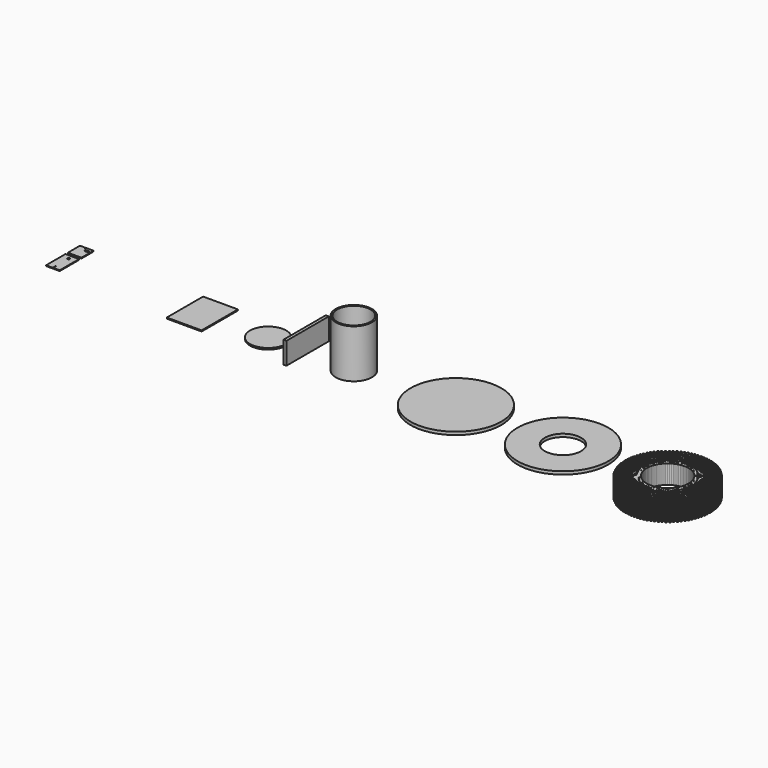
from build123d import *

# Parameters (mm, degrees)
F1_DEPTH  = 62.5
F2_R      = 300
F3_DEPTH  = 20
F4_R      = 120
F5_DEPTH  = 20
F6_R      = 300
F7_DEPTH  = 20
F8_R      = 120
F8_R_2    = 110
F9_DEPTH  = 320
F10_W     = 20
F10_H     = 350
F11_DEPTH = 145
F12_R     = 120
F13_DEPTH = 10
F14_W     = 230
F14_H     = 300
F15_DEPTH = 7
F16_W     = 90
F16_H     = 160
F16_R     = 3
F16_R_2   = 7.5
F17_DEPTH = 5
F18_W     = 90
F18_H     = 100
F18_R     = 3
F19_DEPTH = 5


with BuildPart() as f1:
    # F0 (on Top) → F1 (new body, symmetric)
    with BuildSketch(Plane.XY):
        Polygon((138, -4.9286824998), (138, -5), (139.9968450039, -5), (138.0050877322, -4.8575467084), align=None)
        Polygon((139.9968450039, -5), (138, -5), (138, -4.9286824998), (137.2967836324, -14.7609320632), (137.3069331709, -14.6903404723), (139.283453172, -14.9745211461), (278.9298961749, -24.9622318688), (279.6432880069, -14.9877107227), align=None)
        Polygon((138.0050877322, -4.8575467084), (139.9968450039, -5), (280, -5), (280, 5), (139.996845004, 5), (138.0050877322, 4.8575467084), (138, 4.9286824998), (138, -4.9286824998), align=None)
        Polygon((137.2967836324, 14.7609320632), (138, 4.9286824998), (138, 5), (139.996845004, 5), (279.6432880069, 14.9877107227), (278.9298961749, 24.9622318688), (139.283453172, 14.9745211461), (137.3069331709, 14.6903404723), align=None)
        Polygon((138, 5), (138, 4.9286824998), (138.0050877322, 4.8575467084), (139.996845004, 5), align=None)
        Polygon((137.2916959002, -14.8320678545), (137.2967836324, -14.7609320632), (135.8939343267, -24.5179633003), (135.9090939518, -24.4482756285), (137.8603047892, -24.8727355649), (276.4384295353, -44.7972619259), (277.861577918, -34.8990475071), (139.283453172, -14.9745211461), align=None)
        Polygon((137.3069331709, -14.6903404723), (137.2967836324, -14.7609320632), (137.2916959002, -14.8320678545), (139.283453172, -14.9745211461), align=None)
        Polygon((135.8939343267, 24.5179633003), (137.2967836324, 14.7609320632), (137.2916959002, 14.8320678545), (139.283453172, 14.9745211461), (277.861577918, 34.8990475071), (276.4384295353, 44.7972619259), (137.8603047892, 24.8727355649), (135.9090939518, 24.4482756285), align=None)
        Polygon((137.2916959002, 14.8320678545), (137.2967836324, 14.7609320632), (137.3069331709, 14.6903404723), (139.283453172, 14.9745211461), align=None)
        Polygon((135.8837847882, -24.5885548911), (135.8939343267, -24.5179633003), (133.7986006813, -34.1500566164), (133.818693143, -34.081627976), (135.7346518937, -34.6442042246), (272.5382960242, -64.4040154047), (274.6639489197, -54.632546745), (137.8603047892, -24.8727355649), align=None)
        Polygon((135.9090939518, -24.4482756285), (135.8939343267, -24.5179633003), (135.8837847882, -24.5885548911), (137.8603047892, -24.8727355649), align=None)
        Polygon((133.7986006813, 34.1500566164), (135.8939343267, 24.5179633003), (135.8837847882, 24.5885548911), (137.8603047892, 24.8727355649), (274.6639489197, 54.632546745), (272.5382960242, 64.4040154047), (135.7346518937, 34.6442042246), (133.818693143, 34.081627976), align=None)
        Polygon((135.8837847882, 24.5885548911), (135.8939343267, 24.5179633003), (135.9090939518, 24.4482756285), (137.8603047892, 24.8727355649), align=None)
        Polygon((133.7834410563, -34.2197442882), (133.7986006813, -34.1500566164), (131.0214600363, -43.6081290719), (131.046382948, -43.5413081597), (132.9173263253, -44.2391339608), (267.2493698279, -83.6825807837), (270.0666953963, -74.0876510475), (135.7346518937, -34.6442042246), align=None)
        Polygon((133.818693143, -34.081627976), (133.7986006813, -34.1500566164), (133.7834410563, -34.2197442882), (135.7346518937, -34.6442042246), align=None)
        Polygon((131.0214600363, 43.6081290719), (133.7986006813, 34.1500566164), (133.7834410563, 34.2197442882), (135.7346518937, 34.6442042246), (270.0666953963, 74.0876510475), (267.2493698279, 83.6825807837), (132.9173263253, 44.2391339608), (131.046382948, 43.5413081597), align=None)
        Polygon((133.7834410563, 34.2197442882), (133.7986006813, 34.1500566164), (133.818693143, 34.081627976), (135.7346518937, 34.6442042246), align=None)
        Polygon((131.0013675746, -43.6765577122), (131.0214600363, -43.6081290719), (127.5766640637, -52.8439844975), (127.6062904239, -52.7791118175), (129.4226845293, -53.6086312108), (260.5986021019, -102.5347189127), (264.0932438979, -93.1652216627), (132.9173263253, -44.2391339608), align=None)
        Polygon((131.046382948, -43.5413081597), (131.0214600363, -43.6081290719), (131.0013675746, -43.6765577122), (132.9173263253, -44.2391339608), align=None)
        Polygon((127.5766640637, 52.8439844975), (131.0214600363, 43.6081290719), (131.0013675746, 43.6765577122), (132.9173263253, 44.2391339608), (264.0932438979, 93.1652216627), (260.5986021019, 102.5347189127), (129.4226845293, 53.6086312108), (127.6062904239, 52.7791118175), align=None)
        Polygon((131.0013675746, 43.6765577122), (131.0214600363, 43.6081290719), (131.046382948, 43.5413081597), (132.9173263253, 44.2391339608), align=None)
        Polygon((127.551741152, -52.9108054097), (127.5766640637, -52.8439844975), (123.4817666542, -61.810559091), (123.5159454939, -61.7479652195), (125.2685343993, -62.7049511643), (252.6198836343, -120.8643636173), (256.7740337643, -111.7680436638), (129.4226845293, -53.6086312108), align=None)
        Polygon((127.6062904239, -52.7791118175), (127.5766640637, -52.8439844975), (127.551741152, -52.9108054097), (129.4226845293, -53.6086312108), align=None)
        Polygon((123.4817666542, 61.810559091), (127.5766640637, 52.8439844975), (127.551741152, 52.9108054097), (129.4226845293, 53.6086312108), (256.7740337643, 111.7680436638), (252.6198836343, 120.8643636173), (125.2685343993, 62.7049511643), (123.5159454939, 61.7479652195), align=None)
        Polygon((127.551741152, 52.9108054097), (127.5766640637, 52.8439844975), (127.6062904239, 52.7791118175), (129.4226845293, 53.6086312108), align=None)
        Polygon((123.4521402939, -61.875431771), (123.4817666542, -61.810559091), (118.7576344664, -70.4621612437), (118.796191618, -70.4021651447), (120.4760445321, -71.48174106), (243.3538721452, -138.5781112295), (248.1463620124, -129.8013213338), (125.2685343993, -62.7049511643), align=None)
        Polygon((123.5159454939, -61.7479652195), (123.4817666542, -61.810559091), (123.4521402939, -61.875431771), (125.2685343993, -62.7049511643), align=None)
        Polygon((118.7576344664, 70.4621612437), (123.4817666542, 61.810559091), (123.4521402939, 61.875431771), (125.2685343993, 62.7049511643), (248.1463620124, 129.8013213338), (243.3538721452, 138.5781112295), (120.4760445321, 71.48174106), (118.796191618, 70.4021651447), align=None)
        Polygon((123.4521402939, 61.875431771), (123.4817666542, 61.810559091), (123.5159454939, 61.7479652195), (125.2685343993, 62.7049511643), align=None)
        Polygon((118.7234556267, -70.5247551152), (118.7576344664, -70.4621612437), (113.428340595, -78.754704374), (113.4710795801, -78.6976117739), (115.0696363575, -79.8942763883), (232.8477851055, -155.5856965517), (238.25419328, -147.1731612234), (120.4760445321, -71.48174106), align=None)
        Polygon((118.796191618, -70.4021651447), (118.7576344664, -70.4621612437), (118.7234556267, -70.5247551152), (120.4760445321, -71.48174106), align=None)
        Polygon((113.428340595, 78.754704374), (118.7576344664, 70.4621612437), (118.7234556267, 70.5247551152), (120.4760445321, 71.48174106), (238.25419328, 147.1731612234), (232.8477851055, 155.5856965517), (115.0696363575, 79.8942763883), (113.4710795801, 78.6976117739), align=None)
        Polygon((118.7234556267, 70.5247551152), (118.7576344664, 70.4621612437), (118.796191618, 70.4021651447), (120.4760445321, 71.48174106), align=None)
        Polygon((113.3897834434, -78.814700473), (113.428340595, -78.754704374), (107.5210419001, -86.6459315831), (107.5677449306, -86.5920334127), (109.0768596924, -87.8996887975), (221.1551591263, -171.8004528278), (227.1479357914, -163.7950404186), (115.0696363575, -79.8942763883), align=None)
        Polygon((113.4710795801, -78.6976117739), (113.428340595, -78.754704374), (113.3897834434, -78.814700473), (115.0696363575, -79.8942763883), align=None)
        Polygon((107.5210419001, 86.6459315831), (113.428340595, 78.754704374), (113.3897834434, 78.814700473), (115.0696363575, 79.8942763883), (227.1479357914, 163.7950404186), (221.1551591263, 171.8004528278), (109.0768596924, 87.8996887975), (107.5677449306, 86.5920334127), align=None)
        Polygon((113.3897834434, 78.814700473), (113.428340595, 78.754704374), (113.4710795801, 78.6976117739), (115.0696363575, 79.8942763883), align=None)
        Polygon((107.478302915, -86.7030241832), (107.5210419001, -86.6459315831), (101.0658406217, -94.0956309858), (101.1162697097, -94.0452018978), (102.5282523529, -95.4571845411), (208.3355771495, -187.1397533765), (214.8841844889, -179.5822576329), (109.0768596924, -87.8996887975), align=None)
        Polygon((107.5677449306, -86.5920334127), (107.5210419001, -86.6459315831), (107.478302915, -86.7030241832), (109.0768596924, -87.8996887975), align=None)
        Polygon((101.0658406217, 94.0956309858), (107.5210419001, 86.6459315831), (107.478302915, 86.7030241832), (109.0768596924, 87.8996887975), (214.8841844889, 179.5822576329), (208.3355771495, 187.1397533765), (102.5282523529, 95.4571845411), (101.1162697097, 94.0452018978), align=None)
        Polygon((107.478302915, 86.7030241832), (107.5210419001, 86.6459315831), (107.5677449306, 86.5920334127), (109.0768596924, 87.8996887975), align=None)
        Polygon((101.0191375912, -94.1495291562), (101.0658406217, -94.0956309858), (94.0956309858, -101.0658406217), (94.1495291562, -101.0191375912), (95.4571845411, -102.5282523529), (194.4543648263, -201.5254326382), (201.5254326382, -194.4543648263), (102.5282523529, -95.4571845411), align=None)
        Polygon((101.1162697097, -94.0452018978), (101.0658406217, -94.0956309858), (101.0191375912, -94.1495291562), (102.5282523529, -95.4571845411), align=None)
        Polygon((94.0956309858, 101.0658406217), (101.0658406217, 94.0956309858), (101.0191375912, 94.1495291562), (102.5282523529, 95.4571845411), (201.5254326382, 194.4543648263), (194.4543648263, 201.5254326382), (95.4571845411, 102.5282523529), (94.1495291562, 101.0191375912), align=None)
        Polygon((101.0191375912, 94.1495291562), (101.0658406217, 94.0956309858), (101.1162697097, 94.0452018978), (102.5282523529, 95.4571845411), align=None)
        Polygon((94.0452018978, -101.1162697097), (94.0956309858, -101.0658406217), (86.6459315831, -107.5210419001), (86.7030241832, -107.478302915), (87.8996887975, -109.0768596924), (179.5822576329, -214.8841844889), (187.1397533765, -208.3355771495), (95.4571845411, -102.5282523529), align=None)
        Polygon((94.1495291562, -101.0191375912), (94.0956309858, -101.0658406217), (94.0452018978, -101.1162697097), (95.4571845411, -102.5282523529), align=None)
        Polygon((86.6459315831, 107.5210419001), (94.0956309858, 101.0658406217), (94.0452018978, 101.1162697097), (95.4571845411, 102.5282523529), (187.1397533765, 208.3355771495), (179.5822576329, 214.8841844889), (87.8996887975, 109.0768596924), (86.7030241832, 107.478302915), align=None)
        Polygon((94.0452018978, 101.1162697097), (94.0956309858, 101.0658406217), (94.1495291562, 101.0191375912), (95.4571845411, 102.5282523529), align=None)
        Polygon((86.5920334127, -107.5677449306), (86.6459315831, -107.5210419001), (78.754704374, -113.428340595), (78.814700473, -113.3897834434), (79.8942763883, -115.0696363575), (163.7950404186, -227.1479357914), (171.8004528278, -221.1551591263), (87.8996887975, -109.0768596924), align=None)
        Polygon((86.7030241832, -107.478302915), (86.6459315831, -107.5210419001), (86.5920334127, -107.5677449306), (87.8996887975, -109.0768596924), align=None)
        Polygon((78.754704374, 113.428340595), (86.6459315831, 107.5210419001), (86.5920334127, 107.5677449306), (87.8996887975, 109.0768596924), (171.8004528278, 221.1551591263), (163.7950404186, 227.1479357914), (79.8942763883, 115.0696363575), (78.814700473, 113.3897834434), align=None)
        Polygon((86.5920334127, 107.5677449306), (86.6459315831, 107.5210419001), (86.7030241832, 107.478302915), (87.8996887975, 109.0768596924), align=None)
        Polygon((78.6976117739, -113.4710795801), (78.754704374, -113.428340595), (70.4621612437, -118.7576344664), (70.5247551152, -118.7234556267), (71.48174106, -120.4760445321), (147.1731612234, -238.25419328), (155.5856965517, -232.8477851055), (79.8942763883, -115.0696363575), align=None)
        Polygon((78.814700473, -113.3897834434), (78.754704374, -113.428340595), (78.6976117739, -113.4710795801), (79.8942763883, -115.0696363575), align=None)
        Polygon((70.4621612437, 118.7576344664), (78.754704374, 113.428340595), (78.6976117739, 113.4710795801), (79.8942763883, 115.0696363575), (155.5856965517, 232.8477851055), (147.1731612234, 238.25419328), (71.48174106, 120.4760445321), (70.5247551152, 118.7234556267), align=None)
        Polygon((78.6976117739, 113.4710795801), (78.754704374, 113.428340595), (78.814700473, 113.3897834434), (79.8942763883, 115.0696363575), align=None)
        Polygon((70.4021651447, -118.796191618), (70.4621612437, -118.7576344664), (61.810559091, -123.4817666542), (61.875431771, -123.4521402939), (62.7049511643, -125.2685343993), (129.8013213338, -248.1463620124), (138.5781112295, -243.3538721452), (71.48174106, -120.4760445321), align=None)
        Polygon((70.5247551152, -118.7234556267), (70.4621612437, -118.7576344664), (70.4021651447, -118.796191618), (71.48174106, -120.4760445321), align=None)
        Polygon((61.810559091, 123.4817666542), (70.4621612437, 118.7576344664), (70.4021651447, 118.796191618), (71.48174106, 120.4760445321), (138.5781112295, 243.3538721452), (129.8013213338, 248.1463620124), (62.7049511643, 125.2685343993), (61.875431771, 123.4521402939), align=None)
        Polygon((70.4021651447, 118.796191618), (70.4621612437, 118.7576344664), (70.5247551152, 118.7234556267), (71.48174106, 120.4760445321), align=None)
        Polygon((61.7479652195, -123.5159454939), (61.810559091, -123.4817666542), (52.8439844975, -127.5766640637), (52.9108054097, -127.551741152), (53.6086312108, -129.4226845293), (111.7680436638, -256.7740337643), (120.8643636173, -252.6198836343), (62.7049511643, -125.2685343993), align=None)
        Polygon((61.875431771, -123.4521402939), (61.810559091, -123.4817666542), (61.7479652195, -123.5159454939), (62.7049511643, -125.2685343993), align=None)
        Polygon((52.8439844975, 127.5766640637), (61.810559091, 123.4817666542), (61.7479652195, 123.5159454939), (62.7049511643, 125.2685343993), (120.8643636173, 252.6198836343), (111.7680436638, 256.7740337643), (53.6086312108, 129.4226845293), (52.9108054097, 127.551741152), align=None)
        Polygon((61.7479652195, 123.5159454939), (61.810559091, 123.4817666542), (61.875431771, 123.4521402939), (62.7049511643, 125.2685343993), align=None)
        Polygon((52.7791118175, -127.6062904239), (52.8439844975, -127.5766640637), (43.6081290719, -131.0214600363), (43.6765577122, -131.0013675746), (44.2391339608, -132.9173263253), (93.1652216627, -264.0932438979), (102.5347189127, -260.5986021019), (53.6086312108, -129.4226845293), align=None)
        Polygon((52.9108054097, -127.551741152), (52.8439844975, -127.5766640637), (52.7791118175, -127.6062904239), (53.6086312108, -129.4226845293), align=None)
        Polygon((43.6081290719, 131.0214600363), (52.8439844975, 127.5766640637), (52.7791118175, 127.6062904239), (53.6086312108, 129.4226845293), (102.5347189127, 260.5986021019), (93.1652216627, 264.0932438979), (44.2391339608, 132.9173263253), (43.6765577122, 131.0013675746), align=None)
        Polygon((52.7791118175, 127.6062904239), (52.8439844975, 127.5766640637), (52.9108054097, 127.551741152), (53.6086312108, 129.4226845293), align=None)
        Polygon((43.5413081597, -131.046382948), (43.6081290719, -131.0214600363), (34.1500566164, -133.7986006813), (34.2197442882, -133.7834410563), (34.6442042246, -135.7346518937), (74.0876510475, -270.0666953963), (83.6825807837, -267.2493698279), (44.2391339608, -132.9173263253), align=None)
        Polygon((43.6765577122, -131.0013675746), (43.6081290719, -131.0214600363), (43.5413081597, -131.046382948), (44.2391339608, -132.9173263253), align=None)
        Polygon((34.1500566164, 133.7986006813), (43.6081290719, 131.0214600363), (43.5413081597, 131.046382948), (44.2391339608, 132.9173263253), (83.6825807837, 267.2493698279), (74.0876510475, 270.0666953963), (34.6442042246, 135.7346518937), (34.2197442882, 133.7834410563), align=None)
        Polygon((43.5413081597, 131.046382948), (43.6081290719, 131.0214600363), (43.6765577122, 131.0013675746), (44.2391339608, 132.9173263253), align=None)
        Polygon((34.081627976, -133.818693143), (34.1500566164, -133.7986006813), (24.5179633003, -135.8939343267), (24.5885548911, -135.8837847882), (24.8727355649, -137.8603047892), (54.632546745, -274.6639489197), (64.4040154047, -272.5382960242), (34.6442042246, -135.7346518937), align=None)
        Polygon((34.2197442882, -133.7834410563), (34.1500566164, -133.7986006813), (34.081627976, -133.818693143), (34.6442042246, -135.7346518937), align=None)
        Polygon((24.5179633003, 135.8939343267), (34.1500566164, 133.7986006813), (34.081627976, 133.818693143), (34.6442042246, 135.7346518937), (64.4040154047, 272.5382960242), (54.632546745, 274.6639489197), (24.8727355649, 137.8603047892), (24.5885548911, 135.8837847882), align=None)
        Polygon((34.081627976, 133.818693143), (34.1500566164, 133.7986006813), (34.2197442882, 133.7834410563), (34.6442042246, 135.7346518937), align=None)
        Polygon((24.4482756285, -135.9090939518), (24.5179633003, -135.8939343267), (14.7609320632, -137.2967836324), (14.8320678545, -137.2916959002), (14.9745211461, -139.283453172), (34.8990475071, -277.861577918), (44.7972619259, -276.4384295353), (24.8727355649, -137.8603047892), align=None)
        Polygon((24.5885548911, -135.8837847882), (24.5179633003, -135.8939343267), (24.4482756285, -135.9090939518), (24.8727355649, -137.8603047892), align=None)
        Polygon((14.7609320632, 137.2967836324), (24.5179633003, 135.8939343267), (24.4482756285, 135.9090939518), (24.8727355649, 137.8603047892), (44.7972619259, 276.4384295353), (34.8990475071, 277.861577918), (14.9745211461, 139.283453172), (14.8320678545, 137.2916959002), align=None)
        Polygon((24.4482756285, 135.9090939518), (24.5179633003, 135.8939343267), (24.5885548911, 135.8837847882), (24.8727355649, 137.8603047892), align=None)
        Polygon((14.6903404723, -137.3069331709), (14.7609320632, -137.2967836324), (4.9286824998, -138), (5, -138), (5, -139.996845004), (14.9877107227, -279.6432880069), (24.9622318688, -278.9298961749), (14.9745211461, -139.283453172), align=None)
        Polygon((14.8320678545, -137.2916959002), (14.7609320632, -137.2967836324), (14.6903404723, -137.3069331709), (14.9745211461, -139.283453172), align=None)
        Polygon((4.9286824998, 138), (14.7609320632, 137.2967836324), (14.6903404723, 137.3069331709), (14.9745211461, 139.283453172), (24.9622318688, 278.9298961749), (14.9877107227, 279.6432880069), (5, 139.9968450039), (5, 138), align=None)
        Polygon((14.6903404723, 137.3069331709), (14.7609320632, 137.2967836324), (14.8320678545, 137.2916959002), (14.9745211461, 139.283453172), align=None)
        Polygon((4.8575467084, -138.0050877322), (4.9286824998, -138), (-4.9286824998, -138), (-4.8575467084, -138.0050877322), (-5, -139.9968450039), (-5, -280), (5, -280), (5, -139.996845004), align=None)
        Polygon((5, -138), (4.9286824998, -138), (4.8575467084, -138.0050877322), (5, -139.996845004), align=None)
        Polygon((-4.9286824998, 138), (4.9286824998, 138), (4.8575467084, 138.0050877322), (5, 139.9968450039), (5, 280), (-5, 280), (-5, 139.996845004), (-4.8575467084, 138.0050877322), align=None)
        Polygon((4.8575467084, 138.0050877322), (4.9286824998, 138), (5, 138), (5, 139.9968450039), align=None)
        Polygon((-5, -138), (-4.9286824998, -138), (-14.7609320632, -137.2967836324), (-14.6903404723, -137.3069331709), (-14.9745211461, -139.283453172), (-24.9622318688, -278.9298961749), (-14.9877107227, -279.6432880069), (-5, -139.9968450039), align=None)
        Polygon((-4.8575467084, -138.0050877322), (-4.9286824998, -138), (-5, -138), (-5, -139.9968450039), align=None)
        Polygon((-14.7609320632, 137.2967836324), (-4.9286824998, 138), (-5, 138), (-5, 139.996845004), (-14.9877107227, 279.6432880069), (-24.9622318688, 278.9298961749), (-14.9745211461, 139.283453172), (-14.6903404723, 137.3069331709), align=None)
        Polygon((-5, 138), (-4.9286824998, 138), (-4.8575467084, 138.0050877322), (-5, 139.996845004), align=None)
        Polygon((-14.8320678545, -137.2916959002), (-14.7609320632, -137.2967836324), (-24.5179633003, -135.8939343267), (-24.4482756285, -135.9090939518), (-24.8727355649, -137.8603047892), (-44.7972619259, -276.4384295353), (-34.8990475071, -277.861577918), (-14.9745211461, -139.283453172), align=None)
        Polygon((-14.6903404723, -137.3069331709), (-14.7609320632, -137.2967836324), (-14.8320678545, -137.2916959002), (-14.9745211461, -139.283453172), align=None)
        Polygon((-24.5179633003, 135.8939343267), (-14.7609320632, 137.2967836324), (-14.8320678545, 137.2916959002), (-14.9745211461, 139.283453172), (-34.8990475071, 277.861577918), (-44.7972619259, 276.4384295353), (-24.8727355649, 137.8603047892), (-24.4482756285, 135.9090939518), align=None)
        Polygon((-14.8320678545, 137.2916959002), (-14.7609320632, 137.2967836324), (-14.6903404723, 137.3069331709), (-14.9745211461, 139.283453172), align=None)
        Polygon((-24.5885548911, -135.8837847882), (-24.5179633003, -135.8939343267), (-34.1500566164, -133.7986006813), (-34.081627976, -133.818693143), (-34.6442042246, -135.7346518937), (-64.4040154047, -272.5382960242), (-54.632546745, -274.6639489197), (-24.8727355649, -137.8603047892), align=None)
        Polygon((-24.4482756285, -135.9090939518), (-24.5179633003, -135.8939343267), (-24.5885548911, -135.8837847882), (-24.8727355649, -137.8603047892), align=None)
        Polygon((-34.1500566164, 133.7986006813), (-24.5179633003, 135.8939343267), (-24.5885548911, 135.8837847882), (-24.8727355649, 137.8603047892), (-54.632546745, 274.6639489197), (-64.4040154047, 272.5382960242), (-34.6442042246, 135.7346518937), (-34.081627976, 133.818693143), align=None)
        Polygon((-24.5885548911, 135.8837847882), (-24.5179633003, 135.8939343267), (-24.4482756285, 135.9090939518), (-24.8727355649, 137.8603047892), align=None)
        Polygon((-34.2197442882, -133.7834410563), (-34.1500566164, -133.7986006813), (-43.6081290719, -131.0214600363), (-43.5413081597, -131.046382948), (-44.2391339608, -132.9173263253), (-83.6825807837, -267.2493698279), (-74.0876510475, -270.0666953963), (-34.6442042246, -135.7346518937), align=None)
        Polygon((-34.081627976, -133.818693143), (-34.1500566164, -133.7986006813), (-34.2197442882, -133.7834410563), (-34.6442042246, -135.7346518937), align=None)
        Polygon((-43.6081290719, 131.0214600363), (-34.1500566164, 133.7986006813), (-34.2197442882, 133.7834410563), (-34.6442042246, 135.7346518937), (-74.0876510475, 270.0666953963), (-83.6825807837, 267.2493698279), (-44.2391339608, 132.9173263253), (-43.5413081597, 131.046382948), align=None)
        Polygon((-34.2197442882, 133.7834410563), (-34.1500566164, 133.7986006813), (-34.081627976, 133.818693143), (-34.6442042246, 135.7346518937), align=None)
        Polygon((-43.6765577122, -131.0013675746), (-43.6081290719, -131.0214600363), (-52.8439844975, -127.5766640637), (-52.7791118175, -127.6062904239), (-53.6086312108, -129.4226845293), (-102.5347189127, -260.5986021019), (-93.1652216627, -264.0932438979), (-44.2391339608, -132.9173263253), align=None)
        Polygon((-43.5413081597, -131.046382948), (-43.6081290719, -131.0214600363), (-43.6765577122, -131.0013675746), (-44.2391339608, -132.9173263253), align=None)
        Polygon((-52.8439844975, 127.5766640637), (-43.6081290719, 131.0214600363), (-43.6765577122, 131.0013675746), (-44.2391339608, 132.9173263253), (-93.1652216627, 264.0932438979), (-102.5347189127, 260.5986021019), (-53.6086312108, 129.4226845293), (-52.7791118175, 127.6062904239), align=None)
        Polygon((-43.6765577122, 131.0013675746), (-43.6081290719, 131.0214600363), (-43.5413081597, 131.046382948), (-44.2391339608, 132.9173263253), align=None)
        Polygon((-52.9108054097, -127.551741152), (-52.8439844975, -127.5766640637), (-61.810559091, -123.4817666542), (-61.7479652195, -123.5159454939), (-62.7049511643, -125.2685343993), (-120.8643636173, -252.6198836343), (-111.7680436638, -256.7740337643), (-53.6086312108, -129.4226845293), align=None)
        Polygon((-52.7791118175, -127.6062904239), (-52.8439844975, -127.5766640637), (-52.9108054097, -127.551741152), (-53.6086312108, -129.4226845293), align=None)
        Polygon((-61.810559091, 123.4817666542), (-52.8439844975, 127.5766640637), (-52.9108054097, 127.551741152), (-53.6086312108, 129.4226845293), (-111.7680436638, 256.7740337643), (-120.8643636173, 252.6198836343), (-62.7049511643, 125.2685343993), (-61.7479652195, 123.5159454939), align=None)
        Polygon((-52.9108054097, 127.551741152), (-52.8439844975, 127.5766640637), (-52.7791118175, 127.6062904239), (-53.6086312108, 129.4226845293), align=None)
        Polygon((-61.875431771, -123.4521402939), (-61.810559091, -123.4817666542), (-70.4621612437, -118.7576344664), (-70.4021651447, -118.796191618), (-71.48174106, -120.4760445321), (-138.5781112295, -243.3538721452), (-129.8013213338, -248.1463620124), (-62.7049511643, -125.2685343993), align=None)
        Polygon((-61.7479652195, -123.5159454939), (-61.810559091, -123.4817666542), (-61.875431771, -123.4521402939), (-62.7049511643, -125.2685343993), align=None)
        Polygon((-70.4621612437, 118.7576344664), (-61.810559091, 123.4817666542), (-61.875431771, 123.4521402939), (-62.7049511643, 125.2685343993), (-129.8013213338, 248.1463620124), (-138.5781112295, 243.3538721452), (-71.48174106, 120.4760445321), (-70.4021651447, 118.796191618), align=None)
        Polygon((-61.875431771, 123.4521402939), (-61.810559091, 123.4817666542), (-61.7479652195, 123.5159454939), (-62.7049511643, 125.2685343993), align=None)
        Polygon((-70.5247551152, -118.7234556267), (-70.4621612437, -118.7576344664), (-78.754704374, -113.428340595), (-78.6976117739, -113.4710795801), (-79.8942763883, -115.0696363575), (-155.5856965517, -232.8477851055), (-147.1731612234, -238.25419328), (-71.48174106, -120.4760445321), align=None)
        Polygon((-70.4021651447, -118.796191618), (-70.4621612437, -118.7576344664), (-70.5247551152, -118.7234556267), (-71.48174106, -120.4760445321), align=None)
        Polygon((-78.754704374, 113.428340595), (-70.4621612437, 118.7576344664), (-70.5247551152, 118.7234556267), (-71.48174106, 120.4760445321), (-147.1731612234, 238.25419328), (-155.5856965517, 232.8477851055), (-79.8942763883, 115.0696363575), (-78.6976117739, 113.4710795801), align=None)
        Polygon((-70.5247551152, 118.7234556267), (-70.4621612437, 118.7576344664), (-70.4021651447, 118.796191618), (-71.48174106, 120.4760445321), align=None)
        Polygon((-78.814700473, -113.3897834434), (-78.754704374, -113.428340595), (-86.6459315831, -107.5210419001), (-86.5920334127, -107.5677449306), (-87.8996887975, -109.0768596924), (-171.8004528278, -221.1551591263), (-163.7950404186, -227.1479357914), (-79.8942763883, -115.0696363575), align=None)
        Polygon((-78.6976117739, -113.4710795801), (-78.754704374, -113.428340595), (-78.814700473, -113.3897834434), (-79.8942763883, -115.0696363575), align=None)
        Polygon((-86.6459315831, 107.5210419001), (-78.754704374, 113.428340595), (-78.814700473, 113.3897834434), (-79.8942763883, 115.0696363575), (-163.7950404186, 227.1479357914), (-171.8004528278, 221.1551591263), (-87.8996887975, 109.0768596924), (-86.5920334127, 107.5677449306), align=None)
        Polygon((-78.814700473, 113.3897834434), (-78.754704374, 113.428340595), (-78.6976117739, 113.4710795801), (-79.8942763883, 115.0696363575), align=None)
        Polygon((-86.7030241832, -107.478302915), (-86.6459315831, -107.5210419001), (-94.0956309858, -101.0658406217), (-94.0452018978, -101.1162697097), (-95.4571845411, -102.5282523529), (-187.1397533765, -208.3355771495), (-179.5822576329, -214.8841844889), (-87.8996887975, -109.0768596924), align=None)
        Polygon((-86.5920334127, -107.5677449306), (-86.6459315831, -107.5210419001), (-86.7030241832, -107.478302915), (-87.8996887975, -109.0768596924), align=None)
        Polygon((-94.0956309858, 101.0658406217), (-86.6459315831, 107.5210419001), (-86.7030241832, 107.478302915), (-87.8996887975, 109.0768596924), (-179.5822576329, 214.8841844889), (-187.1397533765, 208.3355771495), (-95.4571845411, 102.5282523529), (-94.0452018978, 101.1162697097), align=None)
        Polygon((-86.7030241832, 107.478302915), (-86.6459315831, 107.5210419001), (-86.5920334127, 107.5677449306), (-87.8996887975, 109.0768596924), align=None)
        Polygon((-94.1495291562, -101.0191375912), (-94.0956309858, -101.0658406217), (-101.0658406217, -94.0956309858), (-101.0191375912, -94.1495291562), (-102.5282523529, -95.4571845411), (-201.5254326382, -194.4543648263), (-194.4543648263, -201.5254326382), (-95.4571845411, -102.5282523529), align=None)
        Polygon((-94.0452018978, -101.1162697097), (-94.0956309858, -101.0658406217), (-94.1495291562, -101.0191375912), (-95.4571845411, -102.5282523529), align=None)
        Polygon((-101.0658406217, 94.0956309858), (-94.0956309858, 101.0658406217), (-94.1495291562, 101.0191375912), (-95.4571845411, 102.5282523529), (-194.4543648263, 201.5254326382), (-201.5254326382, 194.4543648263), (-102.5282523529, 95.4571845411), (-101.0191375912, 94.1495291562), align=None)
        Polygon((-94.1495291562, 101.0191375912), (-94.0956309858, 101.0658406217), (-94.0452018978, 101.1162697097), (-95.4571845411, 102.5282523529), align=None)
        Polygon((-101.1162697097, -94.0452018978), (-101.0658406217, -94.0956309858), (-107.5210419001, -86.6459315831), (-107.478302915, -86.7030241832), (-109.0768596924, -87.8996887975), (-214.8841844889, -179.5822576329), (-208.3355771495, -187.1397533765), (-102.5282523529, -95.4571845411), align=None)
        Polygon((-101.0191375912, -94.1495291562), (-101.0658406217, -94.0956309858), (-101.1162697097, -94.0452018978), (-102.5282523529, -95.4571845411), align=None)
        Polygon((-107.5210419001, 86.6459315831), (-101.0658406217, 94.0956309858), (-101.1162697097, 94.0452018978), (-102.5282523529, 95.4571845411), (-208.3355771495, 187.1397533765), (-214.8841844889, 179.5822576329), (-109.0768596924, 87.8996887975), (-107.478302915, 86.7030241832), align=None)
        Polygon((-101.1162697097, 94.0452018978), (-101.0658406217, 94.0956309858), (-101.0191375912, 94.1495291562), (-102.5282523529, 95.4571845411), align=None)
        Polygon((-107.5677449306, -86.5920334127), (-107.5210419001, -86.6459315831), (-113.428340595, -78.754704374), (-113.3897834434, -78.814700473), (-115.0696363575, -79.8942763883), (-227.1479357914, -163.7950404186), (-221.1551591263, -171.8004528278), (-109.0768596924, -87.8996887975), align=None)
        Polygon((-107.478302915, -86.7030241832), (-107.5210419001, -86.6459315831), (-107.5677449306, -86.5920334127), (-109.0768596924, -87.8996887975), align=None)
        Polygon((-113.428340595, 78.754704374), (-107.5210419001, 86.6459315831), (-107.5677449306, 86.5920334127), (-109.0768596924, 87.8996887975), (-221.1551591263, 171.8004528278), (-227.1479357914, 163.7950404186), (-115.0696363575, 79.8942763883), (-113.3897834434, 78.814700473), align=None)
        Polygon((-107.5677449306, 86.5920334127), (-107.5210419001, 86.6459315831), (-107.478302915, 86.7030241832), (-109.0768596924, 87.8996887975), align=None)
        Polygon((-113.4710795801, -78.6976117739), (-113.428340595, -78.754704374), (-118.7576344664, -70.4621612437), (-118.7234556267, -70.5247551152), (-120.4760445321, -71.48174106), (-238.25419328, -147.1731612234), (-232.8477851055, -155.5856965517), (-115.0696363575, -79.8942763883), align=None)
        Polygon((-113.3897834434, -78.814700473), (-113.428340595, -78.754704374), (-113.4710795801, -78.6976117739), (-115.0696363575, -79.8942763883), align=None)
        Polygon((-118.7576344664, 70.4621612437), (-113.428340595, 78.754704374), (-113.4710795801, 78.6976117739), (-115.0696363575, 79.8942763883), (-232.8477851055, 155.5856965517), (-238.25419328, 147.1731612234), (-120.4760445321, 71.48174106), (-118.7234556267, 70.5247551152), align=None)
        Polygon((-113.4710795801, 78.6976117739), (-113.428340595, 78.754704374), (-113.3897834434, 78.814700473), (-115.0696363575, 79.8942763883), align=None)
        Polygon((-118.796191618, -70.4021651447), (-118.7576344664, -70.4621612437), (-123.4817666542, -61.810559091), (-123.4521402939, -61.875431771), (-125.2685343993, -62.7049511643), (-248.1463620124, -129.8013213338), (-243.3538721452, -138.5781112295), (-120.4760445321, -71.48174106), align=None)
        Polygon((-118.7234556267, -70.5247551152), (-118.7576344664, -70.4621612437), (-118.796191618, -70.4021651447), (-120.4760445321, -71.48174106), align=None)
        Polygon((-123.4817666542, 61.810559091), (-118.7576344664, 70.4621612437), (-118.796191618, 70.4021651447), (-120.4760445321, 71.48174106), (-243.3538721452, 138.5781112295), (-248.1463620124, 129.8013213338), (-125.2685343993, 62.7049511643), (-123.4521402939, 61.875431771), align=None)
        Polygon((-118.796191618, 70.4021651447), (-118.7576344664, 70.4621612437), (-118.7234556267, 70.5247551152), (-120.4760445321, 71.48174106), align=None)
        Polygon((-123.5159454939, -61.7479652195), (-123.4817666542, -61.810559091), (-127.5766640637, -52.8439844975), (-127.551741152, -52.9108054097), (-129.4226845293, -53.6086312108), (-256.7740337643, -111.7680436638), (-252.6198836343, -120.8643636173), (-125.2685343993, -62.7049511643), align=None)
        Polygon((-123.4521402939, -61.875431771), (-123.4817666542, -61.810559091), (-123.5159454939, -61.7479652195), (-125.2685343993, -62.7049511643), align=None)
        Polygon((-127.5766640637, 52.8439844975), (-123.4817666542, 61.810559091), (-123.5159454939, 61.7479652195), (-125.2685343993, 62.7049511643), (-252.6198836343, 120.8643636173), (-256.7740337643, 111.7680436638), (-129.4226845293, 53.6086312108), (-127.551741152, 52.9108054097), align=None)
        Polygon((-123.5159454939, 61.7479652195), (-123.4817666542, 61.810559091), (-123.4521402939, 61.875431771), (-125.2685343993, 62.7049511643), align=None)
        Polygon((-127.6062904239, -52.7791118175), (-127.5766640637, -52.8439844975), (-131.0214600363, -43.6081290719), (-131.0013675746, -43.6765577122), (-132.9173263253, -44.2391339608), (-264.0932438979, -93.1652216627), (-260.5986021019, -102.5347189127), (-129.4226845293, -53.6086312108), align=None)
        Polygon((-127.551741152, -52.9108054097), (-127.5766640637, -52.8439844975), (-127.6062904239, -52.7791118175), (-129.4226845293, -53.6086312108), align=None)
        Polygon((-131.0214600363, 43.6081290719), (-127.5766640637, 52.8439844975), (-127.6062904239, 52.7791118175), (-129.4226845293, 53.6086312108), (-260.5986021019, 102.5347189127), (-264.0932438979, 93.1652216627), (-132.9173263253, 44.2391339608), (-131.0013675746, 43.6765577122), align=None)
        Polygon((-127.6062904239, 52.7791118175), (-127.5766640637, 52.8439844975), (-127.551741152, 52.9108054097), (-129.4226845293, 53.6086312108), align=None)
        Polygon((-131.046382948, -43.5413081597), (-131.0214600363, -43.6081290719), (-133.7986006813, -34.1500566164), (-133.7834410563, -34.2197442882), (-135.7346518937, -34.6442042246), (-270.0666953963, -74.0876510475), (-267.2493698279, -83.6825807837), (-132.9173263253, -44.2391339608), align=None)
        Polygon((-131.0013675746, -43.6765577122), (-131.0214600363, -43.6081290719), (-131.046382948, -43.5413081597), (-132.9173263253, -44.2391339608), align=None)
        Polygon((-133.7986006813, 34.1500566164), (-131.0214600363, 43.6081290719), (-131.046382948, 43.5413081597), (-132.9173263253, 44.2391339608), (-267.2493698279, 83.6825807837), (-270.0666953963, 74.0876510475), (-135.7346518937, 34.6442042246), (-133.7834410563, 34.2197442882), align=None)
        Polygon((-131.046382948, 43.5413081597), (-131.0214600363, 43.6081290719), (-131.0013675746, 43.6765577122), (-132.9173263253, 44.2391339608), align=None)
        Polygon((-133.818693143, -34.081627976), (-133.7986006813, -34.1500566164), (-135.8939343267, -24.5179633003), (-135.8837847882, -24.5885548911), (-137.8603047892, -24.8727355649), (-274.6639489197, -54.632546745), (-272.5382960242, -64.4040154047), (-135.7346518937, -34.6442042246), align=None)
        Polygon((-133.7834410563, -34.2197442882), (-133.7986006813, -34.1500566164), (-133.818693143, -34.081627976), (-135.7346518937, -34.6442042246), align=None)
        Polygon((-135.8939343267, 24.5179633003), (-133.7986006813, 34.1500566164), (-133.818693143, 34.081627976), (-135.7346518937, 34.6442042246), (-272.5382960242, 64.4040154047), (-274.6639489197, 54.632546745), (-137.8603047892, 24.8727355649), (-135.8837847882, 24.5885548911), align=None)
        Polygon((-133.818693143, 34.081627976), (-133.7986006813, 34.1500566164), (-133.7834410563, 34.2197442882), (-135.7346518937, 34.6442042246), align=None)
        Polygon((-135.9090939518, -24.4482756285), (-135.8939343267, -24.5179633003), (-137.2967836324, -14.7609320632), (-137.2916959002, -14.8320678545), (-139.283453172, -14.9745211461), (-277.861577918, -34.8990475071), (-276.4384295353, -44.7972619259), (-137.8603047892, -24.8727355649), align=None)
        Polygon((-135.8837847882, -24.5885548911), (-135.8939343267, -24.5179633003), (-135.9090939518, -24.4482756285), (-137.8603047892, -24.8727355649), align=None)
        Polygon((-137.2967836324, 14.7609320632), (-135.8939343267, 24.5179633003), (-135.9090939518, 24.4482756285), (-137.8603047892, 24.8727355649), (-276.4384295353, 44.7972619259), (-277.861577918, 34.8990475071), (-139.283453172, 14.9745211461), (-137.2916959002, 14.8320678545), align=None)
        Polygon((-135.9090939518, 24.4482756285), (-135.8939343267, 24.5179633003), (-135.8837847882, 24.5885548911), (-137.8603047892, 24.8727355649), align=None)
        Polygon((-137.3069331709, -14.6903404723), (-137.2967836324, -14.7609320632), (-138, -4.9286824998), (-138, -5), (-139.996845004, -5), (-279.6432880069, -14.9877107227), (-278.9298961749, -24.9622318688), (-139.283453172, -14.9745211461), align=None)
        Polygon((-137.2916959002, -14.8320678545), (-137.2967836324, -14.7609320632), (-137.3069331709, -14.6903404723), (-139.283453172, -14.9745211461), align=None)
        Polygon((-138, 4.9286824998), (-137.2967836324, 14.7609320632), (-137.3069331709, 14.6903404723), (-139.283453172, 14.9745211461), (-278.9298961749, 24.9622318688), (-279.6432880069, 14.9877107227), (-139.9968450039, 5), (-138, 5), align=None)
        Polygon((-137.3069331709, 14.6903404723), (-137.2967836324, 14.7609320632), (-137.2916959002, 14.8320678545), (-139.283453172, 14.9745211461), align=None)
        Polygon((-138.0050877322, -4.8575467084), (-138, -4.9286824998), (-138, 4.9286824998), (-138.0050877322, 4.8575467084), (-139.9968450039, 5), (-280, 5), (-280, -5), (-139.996845004, -5), align=None)
        Polygon((-138, -5), (-138, -4.9286824998), (-138.0050877322, -4.8575467084), (-139.996845004, -5), align=None)
        Polygon((-138.0050877322, 4.8575467084), (-138, 4.9286824998), (-138, 5), (-139.9968450039, 5), align=None)
    extrude(amount=F1_DEPTH, both=True)


with BuildPart() as f3:
    # F2 (on Top) → F3 (new body)
    with BuildSketch(Plane.XY):
        with Locations((-692.223072052, 0)):
            Circle(F2_R)
    extrude(amount=F3_DEPTH)

    # F4 (on face) → F5 (cut)
    with BuildSketch(Plane.XY.offset(20)):
        with Locations((-692.223072052, 0)):
            Circle(F4_R)
    extrude(amount=-F5_DEPTH, mode=Mode.SUBTRACT)


with BuildPart() as f7:
    # F6 (on Top) → F7 (new body)
    with BuildSketch(Plane.XY):
        with Locations((-1400, 0)):
            Circle(F6_R)
    extrude(amount=F7_DEPTH)


with BuildPart() as f9:
    # F8 (on Top) → F9 (new body)
    with BuildSketch(Plane.XY):
        with Locations((-2074.3470191956, 0)):
            Circle(F8_R)
        with Locations((-2074.3470191956, 0)):
            Circle(F8_R_2, mode=Mode.SUBTRACT)
    extrude(amount=F9_DEPTH)


with BuildPart() as f11:
    # F10 (on Top) → F11 (new body)
    with BuildSketch(Plane.XY):
        with Locations((-2390.1808261871, 0)):
            Rectangle(F10_W, F10_H)
    extrude(amount=F11_DEPTH)


with BuildPart() as f13:
    # F12 (on Top) → F13 (new body)
    with BuildSketch(Plane.XY):
        with Locations((-2641.0598754883, 0)):
            Circle(F12_R)
    extrude(amount=F13_DEPTH)


with BuildPart() as f15:
    # F14 (on Top) → F15 (new body)
    with BuildSketch(Plane.XY):
        with Locations((-3075.9510993958, 0)):
            Rectangle(F14_W, F14_H)
    extrude(amount=F15_DEPTH)


with BuildPart() as f17:
    # F16 (on Top) → F17 (new body)
    with BuildSketch(Plane.XY):
        with Locations((-4000, 0)):
            Rectangle(F16_W, F16_H)
        with Locations((-4000, -70)):
            Circle(F16_R, mode=Mode.SUBTRACT)
        with Locations((-4000, -60)):
            Circle(F16_R, mode=Mode.SUBTRACT)
        with Locations((-4000, 50)):
            Circle(F16_R_2, mode=Mode.SUBTRACT)
    extrude(amount=F17_DEPTH)


with BuildPart() as f19:
    # F18 (on Top) → F19 (new body)
    with BuildSketch(Plane.XY):
        with Locations((-4000, 150)):
            Rectangle(F18_W, F18_H)
        with BuildLine():
            ThreePointArc((-3992.5405979156, 177), (-3991.6619182592, 179.1213203436), (-3989.5405979156, 180))
            Line((-3989.5405979156, 180), (-3966.9559726715, 180))
            ThreePointArc((-3966.9559726715, 180), (-3964.8346523279, 179.1213203436), (-3963.9559726715, 177))
            Line((-3963.9559726715, 177), (-3963.9559726715, 171))
            ThreePointArc((-3963.9559726715, 171), (-3964.8346523279, 168.8786796564), (-3966.9559726715, 168))
            Line((-3966.9559726715, 168), (-3989.5405979156, 168))
            ThreePointArc((-3989.5405979156, 168), (-3991.6619182592, 168.8786796564), (-3992.5405979156, 171))
            Line((-3992.5405979156, 171), (-3992.5405979156, 177))
        make_face(mode=Mode.SUBTRACT)
        with Locations((-4000, 190)):
            Circle(F18_R, mode=Mode.SUBTRACT)
    extrude(amount=F19_DEPTH)


solid = Compound([f1.part, f3.part, f7.part, f9.part, f11.part, f13.part, f15.part, f17.part, f19.part])
